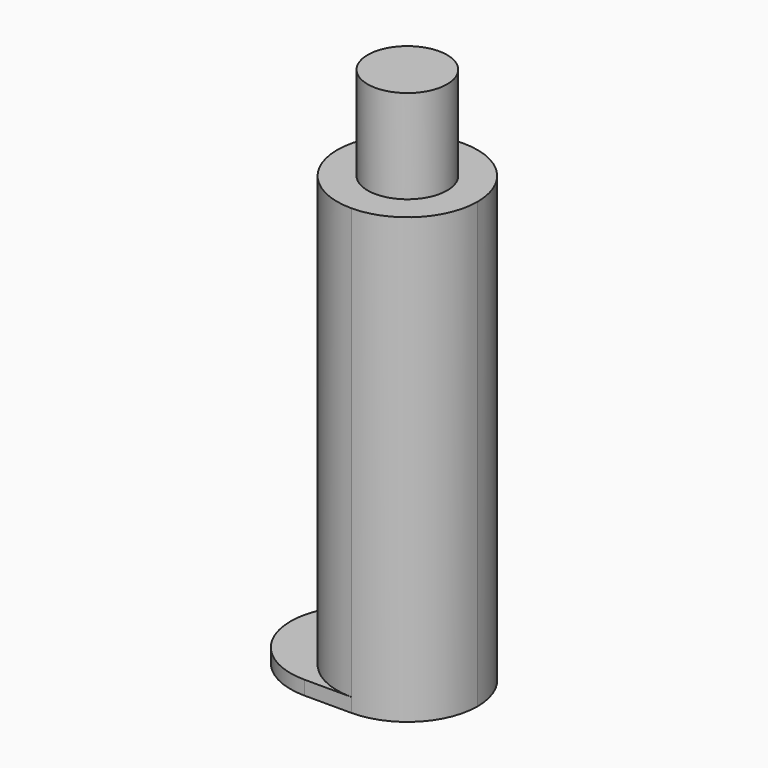
from build123d import *

# Parameters (mm, degrees)
F1_DEPTH = 3
F2_DEPTH = 95
F3_DEPTH = 115


with BuildPart() as f1:
    # F0 (on Top) → F1 (new body)
    with BuildSketch(Plane.XY):
        with BuildLine():
            ThreePointArc((0, -15), (-15, 0), (0, 15))
            Line((0, 15), (-10, 15))
            ThreePointArc((-10, 15), (-25, 0), (-10, -15))
            Line((-10, -15), (0, -15))
        make_face()
        with BuildLine():
            ThreePointArc((0, -15), (10.606602, -10.606602), (15, 0))
            ThreePointArc((15, 0), (10.606602, 10.606602), (0, 15))
            ThreePointArc((0, 15), (-15, 0), (0, -15))
        make_face()
        with BuildLine():
            ThreePointArc((-8.5, 0), (0, 8.5), (8.5, 0))
            ThreePointArc((8.5, 0), (0, -8.5), (-8.5, 0))
        make_face(mode=Mode.SUBTRACT)
        with BuildLine():
            ThreePointArc((-8.5, 0), (0, -8.5), (8.5, 0))
            ThreePointArc((8.5, 0), (0, 8.5), (-8.5, 0))
        make_face()
    extrude(amount=F1_DEPTH)

    # F0 (on Top) → F2 (join)
    with BuildSketch(Plane.XY):
        with BuildLine():
            ThreePointArc((0, -15), (10.606602, -10.606602), (15, 0))
            ThreePointArc((15, 0), (10.606602, 10.606602), (0, 15))
            ThreePointArc((0, 15), (-15, 0), (0, -15))
        make_face()
        with BuildLine():
            ThreePointArc((-8.5, 0), (0, 8.5), (8.5, 0))
            ThreePointArc((8.5, 0), (0, -8.5), (-8.5, 0))
        make_face(mode=Mode.SUBTRACT)
        with BuildLine():
            ThreePointArc((-8.5, 0), (0, -8.5), (8.5, 0))
            ThreePointArc((8.5, 0), (0, 8.5), (-8.5, 0))
        make_face()
    extrude(amount=F2_DEPTH)

    # F0 (on Top) → F3 (join)
    with BuildSketch(Plane.XY):
        with BuildLine():
            ThreePointArc((-8.5, 0), (0, -8.5), (8.5, 0))
            ThreePointArc((8.5, 0), (0, 8.5), (-8.5, 0))
        make_face()
    extrude(amount=F3_DEPTH)


solid = f1.part
